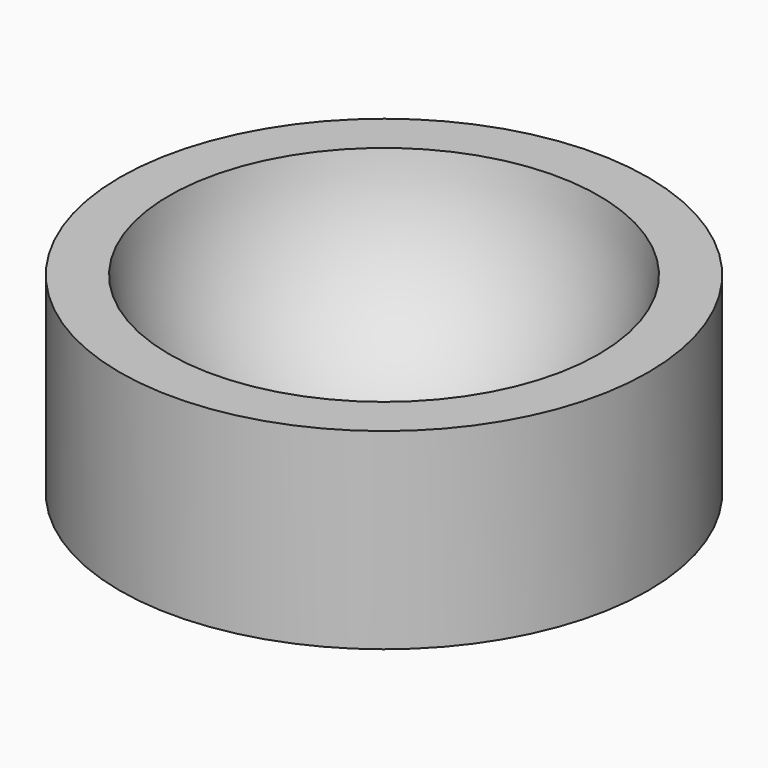
from build123d import *

# Parameters (mm, degrees)
CYLINDER004_R     = 2.75
CYLINDER004_DEPTH = 2


with BuildPart() as esfera_1_taladro:
    # Sphere003 → Sphere003 (revolve)
    with BuildSketch(Plane(origin=(6.25, 0, 15.25), x_dir=(1, 0, 0), z_dir=(0, -1, 0))):
        with BuildLine():
            ThreePointArc((0, -2.25), (2.25, 0), (0, 2.25))
            Line((0, 2.25), (0, -2.25))
        make_face()
    revolve(axis=Axis((6.25, 0, 15.25), (0, 0, 1)))


with BuildPart() as cut001:
    # Cylinder004 → Cylinder004 (new body)
    with BuildSketch(Plane(origin=(6.25, 0, 13), x_dir=(1, 0, 0), z_dir=(0, 0, 1))):
        Circle(CYLINDER004_R)
    extrude(amount=CYLINDER004_DEPTH)

    # Cut001: cut Esfera 1 taladro
    add(esfera_1_taladro.part, mode=Mode.SUBTRACT)


solid = cut001.part
